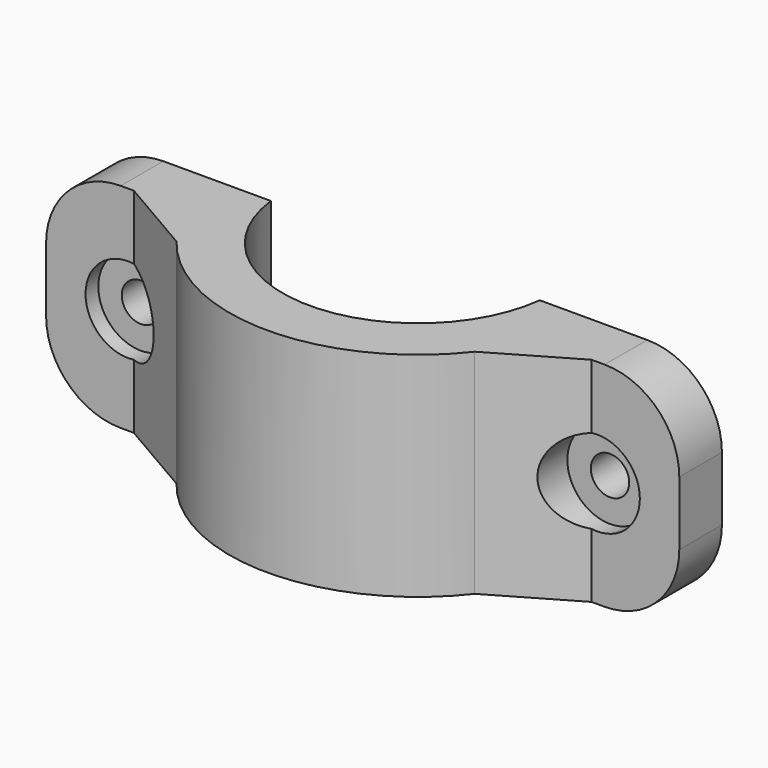
from build123d import *

# Parameters (mm, degrees)
CYLINDER001_R     = 4
CYLINDER001_DEPTH = 20
CYLINDER_R        = 1.8
CYLINDER_DEPTH    = 20
ARRAY_X_COUNT     = 2
ARRAY_X_PITCH     = 44
PAD_DEPTH         = 20
PAD001_DEPTH      = 5


with BuildPart() as bolt_head_hole:
    # Cylinder001 → Cylinder001 (new body)
    with BuildSketch(Plane.XZ):
        Circle(CYLINDER001_R)
    extrude(amount=CYLINDER001_DEPTH)


with BuildPart() as bolt_hole_array:
    # Cylinder → Cylinder (new body)
    with BuildSketch(Plane.XZ.offset(-10)):
        Circle(CYLINDER_R)
    extrude(amount=CYLINDER_DEPTH)

    # Fusion: union bolt head hole
    add(bolt_head_hole.part)

    # Array X: bolt hole array ×2


with BuildPart() as bolt_hole_array_1:
    add(bolt_hole_array.part)
    with Locations(*[(i * ARRAY_X_PITCH, 0, 0) for i in range(1, ARRAY_X_COUNT)]):
        add(bolt_hole_array.part)


with BuildPart() as bolt_hole_array_2:
    # Array placement: moved
    add(bolt_hole_array_1.part.moved(Location((-22, -5, 10))))


with BuildPart() as f_25_mm_attachment_body:
    # Sketch → Pad (new body)
    with BuildSketch(Plane.XY):
        with BuildLine():
            ThreePointArc((12.611106, 1.5), (0, 12.7), (-12.611106, 1.5))
            Line((-22.7, 1.5), (-12.611106, 1.5))
            Line((-22.7, 1.5), (-22.7, 6.5))
            Line((-22.7, 6.5), (-21.463293, 6.5))
            Line((-21.463293, 6.5), (-13.988671, 10.84468))
            ThreePointArc((13.988671, 10.84468), (0, 17.7), (-13.988671, 10.84468))
            Line((13.988671, 10.84468), (21.463293, 6.5))
            Line((21.463293, 6.5), (22.7, 6.5))
            Line((22.7, 6.5), (22.7, 1.5))
            Line((12.611106, 1.5), (22.7, 1.5))
        make_face()
    extrude(amount=PAD_DEPTH)

    # Sketch001 → Pad001 (join)
    with BuildSketch(Plane.XZ.offset(-1.5)):
        with BuildLine():
            Line((-12.611106, 20), (-22.7, 20))
            ThreePointArc((-22.7, 20), (-27.649747, 17.949747), (-29.7, 13))
            Line((-29.7, 13), (-29.7, 7))
            ThreePointArc((-29.7, 7), (-27.649747, 2.050253), (-22.7, 0))
            Line((-12.611106, 0), (-22.7, 0))
            Line((-12.611106, 20), (-12.611106, 0))
        make_face()
        with BuildLine():
            Line((12.611106, 20), (22.7, 20))
            ThreePointArc((29.7, 13), (27.649747, 17.949747), (22.7, 20))
            Line((29.7, 13), (29.7, 7))
            ThreePointArc((22.7, 0), (27.649747, 2.050253), (29.7, 7))
            Line((22.7, 0), (12.611106, 0))
            Line((12.611106, 20), (12.611106, 0))
        make_face()
    extrude(amount=-PAD001_DEPTH)


with BuildPart() as f_25_mm_attachment_holed_clone:
    # Part__Mirroring: instance of 25 mm attachment body
    add(f_25_mm_attachment_body.part.mirror(Plane(origin=(0, 0, 0), x_dir=(1, 0, 0), z_dir=(0, 1, 0))))

    # Cut: cut bolt hole array
    add(bolt_hole_array_2.part, mode=Mode.SUBTRACT)


solid = f_25_mm_attachment_holed_clone.part
